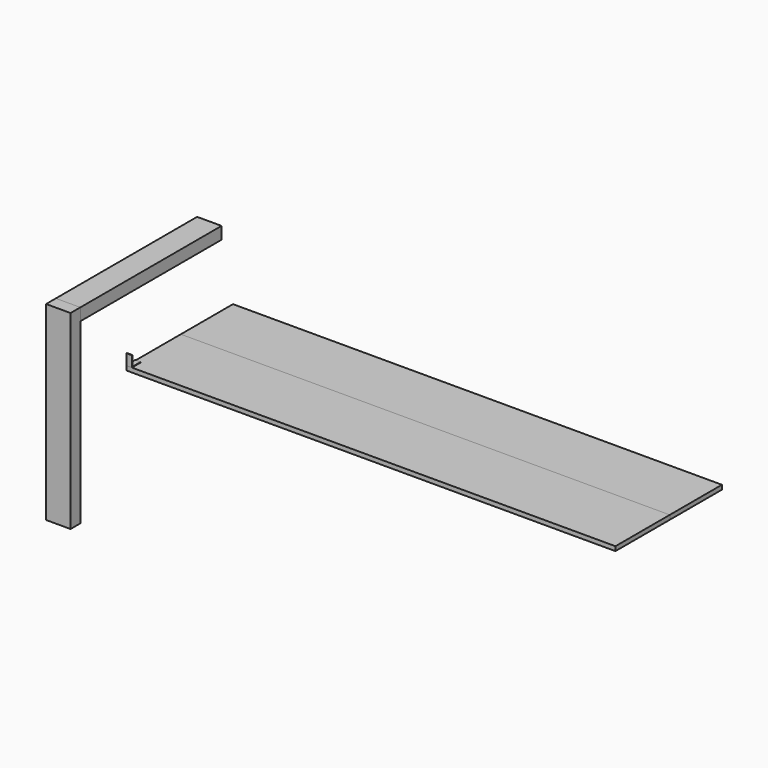
from build123d import *

# Parameters (mm, degrees)
F1_DEPTH  = 90
F0_W      = 650
F0_H      = 45
F2_DEPTH  = 90
F3_W      = 70
F3_H      = 3
F4_DEPTH  = 40
F5_W      = 70
F5_H      = 42
F6_DEPTH  = 3
F8_DEPTH  = 20
F9_W      = 250
F9_H      = 16
F10_DEPTH = 1800
F9_W_2    = 240
F11_DEPTH = 1800


with BuildPart() as f1:
    # F0 (on Right) → F1 (new body)
    with BuildSketch(Plane.YZ):
        Polygon((-325, 350), (-370, 350), (-370, -350), (-325, -350), (-325, -305), (-325, 305), align=None)
    extrude(amount=F1_DEPTH)


with BuildPart() as f2:
    # F0 (on Right) → F2 (new body, through all)
    with BuildSketch(Plane.YZ):
        with Locations((0, 327.5)):
            Rectangle(F0_W, F0_H)
    extrude(amount=F2_DEPTH)

    # F3 (on face) → F4 (cut)
    with BuildSketch(Plane(origin=(0, 0, 305), x_dir=(1, 0, 0), z_dir=(0, 0, -1))):
        with Locations((45, 323.5)):
            Rectangle(F3_W, F3_H)
        with Locations((45, -323.5)):
            Rectangle(F3_W, F3_H)
    extrude(amount=-F4_DEPTH, mode=Mode.SUBTRACT)

    # F5 (on face) → F6 (cut)
    with BuildSketch(Plane(origin=(0, 0, 305), x_dir=(1, 0, 0), z_dir=(0, 0, -1))):
        with Locations((45, 301)):
            Rectangle(F5_W, F5_H)
        with Locations((45, -301)):
            Rectangle(F5_W, F5_H)
    extrude(amount=-F6_DEPTH, mode=Mode.SUBTRACT)


with BuildPart() as f8:
    # F7 (on Right) → F8 (new body)
    with BuildSketch(Plane.YZ):
        Polygon((2, 40), (0, 40), (0, 0), (40, 0), (40, 2), (2, 2), align=None)
    extrude(amount=F8_DEPTH)


with BuildPart() as f10:
    # F9 (on Right) → F10 (new body)
    with BuildSketch(Plane.YZ):
        with Locations((125, -8)):
            Rectangle(F9_W, F9_H)
    extrude(amount=F10_DEPTH)


with BuildPart() as f11:
    # F9 (on Right) → F11 (new body)
    with BuildSketch(Plane.YZ):
        with Locations((370, -8)):
            Rectangle(F9_W_2, F9_H)
    extrude(amount=F11_DEPTH)


solid = Compound([f1.part, f2.part, f8.part, f10.part, f11.part])
